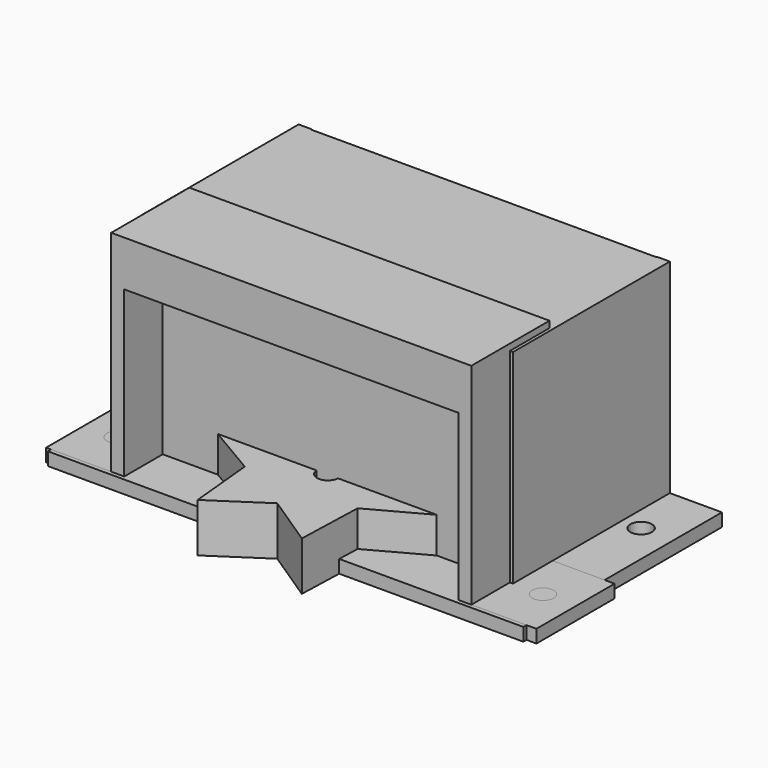
from build123d import *

# Parameters (mm, degrees)
SKETCH_R        = 1.65
PAD_DEPTH       = 7.5
POCKET_DEPTH    = 2.4
SKETCH002_R     = 1.65
PAD001_DEPTH    = 2
PAD002_DEPTH    = 31.3
SKETCH005_W     = 53
SKETCH005_H     = 2
PAD003_DEPTH    = 28
SKETCH006_W     = 75.3
SKETCH006_H     = 15
SKETCH006_R     = 1.65
PAD004_DEPTH    = 2
SKETCH007_W     = 55.3
SKETCH007_H     = 15
PAD005_DEPTH    = 32.3
SKETCH008_W     = 51.3
SKETCH008_H     = 32.3
POCKET001_DEPTH = 15.001
SKETCH009_W     = 51.3
SKETCH009_H     = 2
PAD006_DEPTH    = 5


with BuildPart() as obj1:
    # Sketch → Pad (new body)
    with BuildSketch(Plane.XY):
        Polygon((8, -15), (8.333333, -4.712968), (17, 0), (8.333333, 4.387791), (8, 15), (0, 10.289429), (-8, 15), (-9, 4.387791), (-17, -5.5e-05), (-9, -4.712968), (-8, -15), (0, -9.710571), align=None)
        Circle(SKETCH_R, mode=Mode.SUBTRACT)
    extrude(amount=PAD_DEPTH)

    # Sketch001 (on Face14 of Pad) → Pocket (cut)
    with BuildSketch(Plane(origin=(0, 0, 0), x_dir=(1, 0, 0), z_dir=(0, 0, -1))):
        Polygon((1.818653, -3.15), (3.637307, 0), (1.818653, 3.15), (-1.818653, 3.15), (-3.637307, 0), (-1.818653, -3.15), align=None)
    extrude(amount=-POCKET_DEPTH, mode=Mode.SUBTRACT)


with BuildPart() as obj2:
    # Sketch002 → Pad001 (new body)
    with BuildSketch(Plane.XY):
        Polygon((-26.5, 1.892332), (-26.5, 30.009431), (-36.5, 30.009431), (-36.5, 10.009431), (-36.5, -8.107668), (36.5, -8.107668), (36.5, 0), (36.5, 30.009431), (26.5, 30.009431), (26.5, 1.892332), align=None)
        with Locations((-31.5, 20.746655)):
            Circle(SKETCH002_R, mode=Mode.SUBTRACT)
        with Locations((31.5, 20.746655)):
            Circle(SKETCH002_R, mode=Mode.SUBTRACT)
    extrude(amount=PAD001_DEPTH)

    # Sketch004 (on Face14 of Pad001) → Pad002 (join)
    with BuildSketch(Plane.XY.offset(2)):
        Polygon((-26.5, 30.009431), (-26.5, 1.892332), (26.5, 1.892332), (26.5, 30.009431), (28.5, 30.009431), (28.5, -0.107668), (-28.5, -0.107668), (-28.5, 30.009431), align=None)
    extrude(amount=PAD002_DEPTH)

    # Sketch005 (on Face7 of Pad002) → Pad003 (join)
    with BuildSketch(Plane(origin=(0, 1.892332, 0), x_dir=(-1, 0, 0), z_dir=(0, 1, 0))):
        with Locations((0, 32.3)):
            Rectangle(SKETCH005_W, SKETCH005_H)
    extrude(amount=PAD003_DEPTH)


with BuildPart() as obj3:
    # Sketch006 → Pad004 (new body)
    with BuildSketch(Plane.XY):
        with Locations((0.376887, 0)):
            Rectangle(SKETCH006_W, SKETCH006_H)
        with Locations((33.026887, 0)):
            Circle(SKETCH006_R, mode=Mode.SUBTRACT)
        with Locations((-32.273113, 0)):
            Circle(SKETCH006_R, mode=Mode.SUBTRACT)
    extrude(amount=PAD004_DEPTH)

    # Sketch007 (on Face8 of Pad004) → Pad005 (join)
    with BuildSketch(Plane.XY.offset(2)):
        with Locations((0.376887, 0)):
            Rectangle(SKETCH007_W, SKETCH007_H)
    extrude(amount=PAD005_DEPTH)

    # Sketch008 (on Face6 of Pad005) → Pocket001 (cut, through all)
    with BuildSketch(Plane(origin=(0, 7.5, 0), x_dir=(-1, 0, 0), z_dir=(0, 1, 0))):
        with Locations((-0.376887, 16.15)):
            Rectangle(SKETCH008_W, SKETCH008_H)
    extrude(amount=-POCKET001_DEPTH, mode=Mode.SUBTRACT)

    # Sketch009 (on Face10 of Pocket001) → Pad006 (join)
    with BuildSketch(Plane(origin=(0, 0, 32.3), x_dir=(1, 0, 0), z_dir=(0, 0, -1))):
        with Locations((0.376887, 6.5)):
            Rectangle(SKETCH009_W, SKETCH009_H)
    extrude(amount=PAD006_DEPTH)


solid = Compound([obj1.part, obj2.part, obj3.part])
